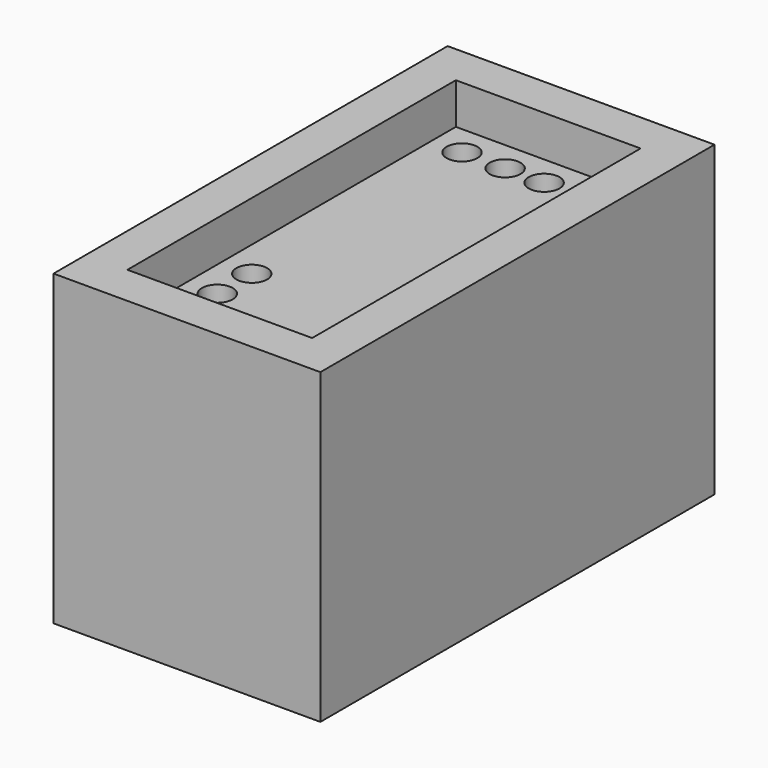
from build123d import *

# Parameters (mm, degrees)
F0_W     = 13
F0_H     = 24
F0_W_2   = 9
F0_H_2   = 20
F1_DEPTH = 10
F0_R     = 0.75
F2_DEPTH = 8
F3_DEPTH = 5


with BuildPart() as f1:
    # F0 (on Top) → F1 (new body)
    with BuildSketch(Plane.XY):
        with Locations((8.4202193944, -4.6071633101)):
            Rectangle(F0_W, F0_H)
        with Locations((8.4202193944, -4.6071633101)):
            Rectangle(F0_W_2, F0_H_2, mode=Mode.SUBTRACT)
        with Locations((8.4202193944, -4.6071633101)):
            Rectangle(F0_W, F0_H)
        with Locations((8.4202193944, -4.6071633101)):
            Rectangle(F0_W_2, F0_H_2, mode=Mode.SUBTRACT)
    extrude(amount=F1_DEPTH)

    # F0 (on Top) → F2 (join)
    with BuildSketch(Plane.XY):
        with Locations((8.4202193944, -4.6071633101)):
            Rectangle(F0_W, F0_H)
        with Locations((8.4202193944, -4.6071633101)):
            Rectangle(F0_W_2, F0_H_2, mode=Mode.SUBTRACT)
        with Locations((8.4202193944, -4.6071633101)):
            Rectangle(F0_W, F0_H)
        with Locations((8.4202193944, -4.6071633101)):
            Rectangle(F0_W_2, F0_H_2, mode=Mode.SUBTRACT)
        with Locations((8.4202193944, -4.6071633101)):
            Rectangle(F0_W_2, F0_H_2)
        with Locations((5.4202193944, -13.1071633101)):
            Circle(F0_R, mode=Mode.SUBTRACT)
        with Locations((5.4202193944, -11.0071633101)):
            Circle(F0_R, mode=Mode.SUBTRACT)
        with Locations((7.5202193944, -13.1071633101)):
            Circle(F0_R, mode=Mode.SUBTRACT)
        with Locations((5.4202193944, -8.9071633101)):
            Circle(F0_R, mode=Mode.SUBTRACT)
        with Locations((9.3202193944, -13.1071633101)):
            Circle(F0_R, mode=Mode.SUBTRACT)
        with Locations((11.4202193944, -13.1071633101)):
            Circle(F0_R, mode=Mode.SUBTRACT)
        with Locations((5.4202193944, 3.8928366899)):
            Circle(F0_R, mode=Mode.SUBTRACT)
        with Locations((7.5202193944, 3.8928366899)):
            Circle(F0_R, mode=Mode.SUBTRACT)
        with Locations((9.4202193944, 3.8928366899)):
            Circle(F0_R, mode=Mode.SUBTRACT)
        with Locations((11.4202193944, 1.8928366899)):
            Circle(F0_R, mode=Mode.SUBTRACT)
        with Locations((11.4202193944, 3.8928366899)):
            Circle(F0_R, mode=Mode.SUBTRACT)
    extrude(amount=F2_DEPTH)

    # F0 (on Top) → F3 (join)
    with BuildSketch(Plane.XY):
        with Locations((8.4202193944, -4.6071633101)):
            Rectangle(F0_W, F0_H)
        with Locations((8.4202193944, -4.6071633101)):
            Rectangle(F0_W_2, F0_H_2, mode=Mode.SUBTRACT)
        with Locations((8.4202193944, -4.6071633101)):
            Rectangle(F0_W, F0_H)
        with Locations((8.4202193944, -4.6071633101)):
            Rectangle(F0_W_2, F0_H_2, mode=Mode.SUBTRACT)
    extrude(amount=-F3_DEPTH)


solid = f1.part
